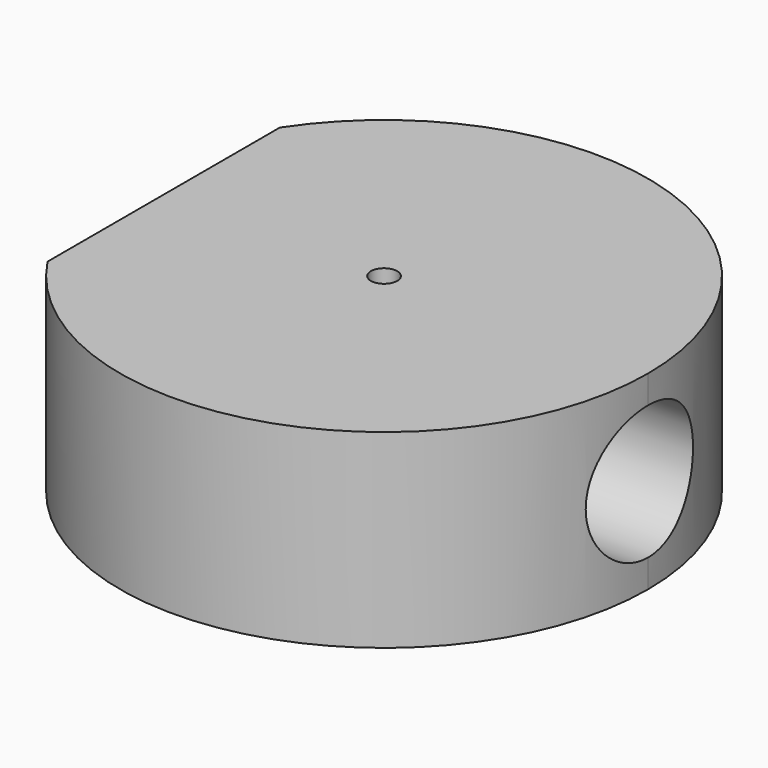
from build123d import *

# Parameters (mm, degrees)
F0_R     = 1.25
F1_DEPTH = 18
F2_R     = 6.35
F3_DEPTH = 59.8157


with BuildPart() as f1:
    # F0 (on Top) → F1 (new body)
    with BuildSketch(Plane.XY):
        with BuildLine():
            ThreePointArc((-20.879116, -13.75), (7.17712, -23.947629), (25, 0))
            ThreePointArc((25, 0), (7.17712, 23.947629), (-20.879116, 13.75))
            Line((-20.879116, 13.75), (-20.879116, -13.75))
        make_face()
        Circle(F0_R, mode=Mode.SUBTRACT)
    extrude(amount=F1_DEPTH)

    # F2 (on face) → F3 (cut)
    with BuildSketch(Plane(origin=(-20.879116, 0, 0), x_dir=(0, -1, 0), z_dir=(-1, 0, 0))):
        with Locations((0, 9)):
            Circle(F2_R)
    extrude(amount=-F3_DEPTH, mode=Mode.SUBTRACT)


solid = f1.part
